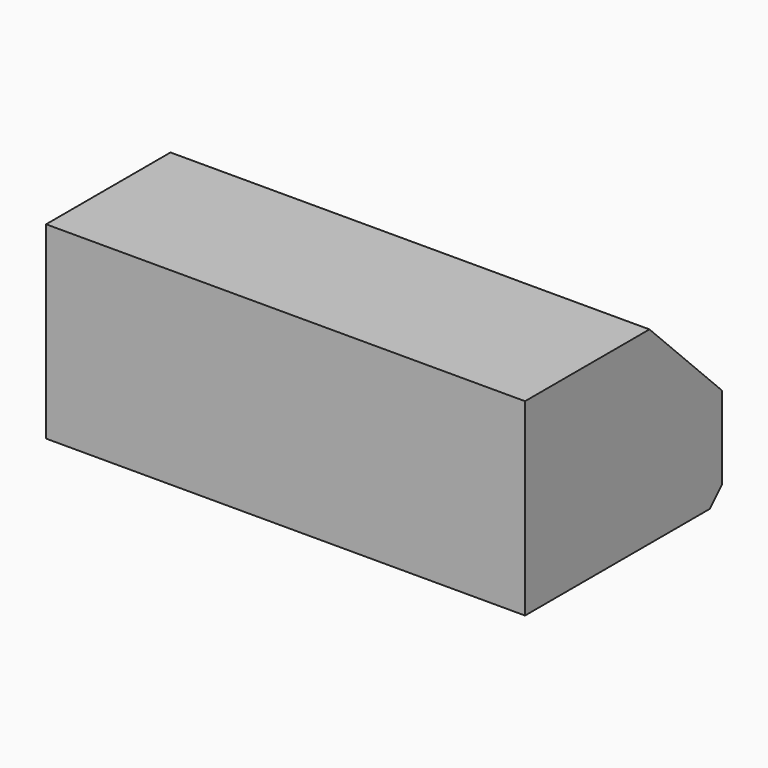
from build123d import *

# Parameters (mm, degrees)
F0_W     = 63.4514391422
F0_H     = 32.6035022736
F1_DEPTH = 25
F2_SIZE  = 12
F4_D     = 4.2
F5_SIZE  = 2


with BuildPart() as f1:
    # F0 (on Top) → F1 (new body)
    with BuildSketch(Plane.XY):
        with Locations((31.7257195711, 16.3017511368)):
            Rectangle(F0_W, F0_H)
    extrude(amount=F1_DEPTH)

    # F2
    f2_edges = [f1.edges().sort_by_distance(p)[0] for p in [
        (31.72572, 32.603502, 25),
    ]]
    chamfer(f2_edges, length=F2_SIZE)

    # F4 (through all)
    with Locations(Plane(origin=(0, 22.8017511368, 22.8017511368), x_dir=(-1, 0, 0), z_dir=(0, 0.7071067812, 0.7071067812))):
        with Locations((-12.4934799969, -4.4305082411), (-40.9099496901, -4.4305082411)):
            Hole(F4_D / 2)

    # F5
    f5_edges = [f1.edges().sort_by_distance(p)[0] for p in [
        (31.72572, 32.603502, 0),
    ]]
    chamfer(f5_edges, length=F5_SIZE)


solid = f1.part
